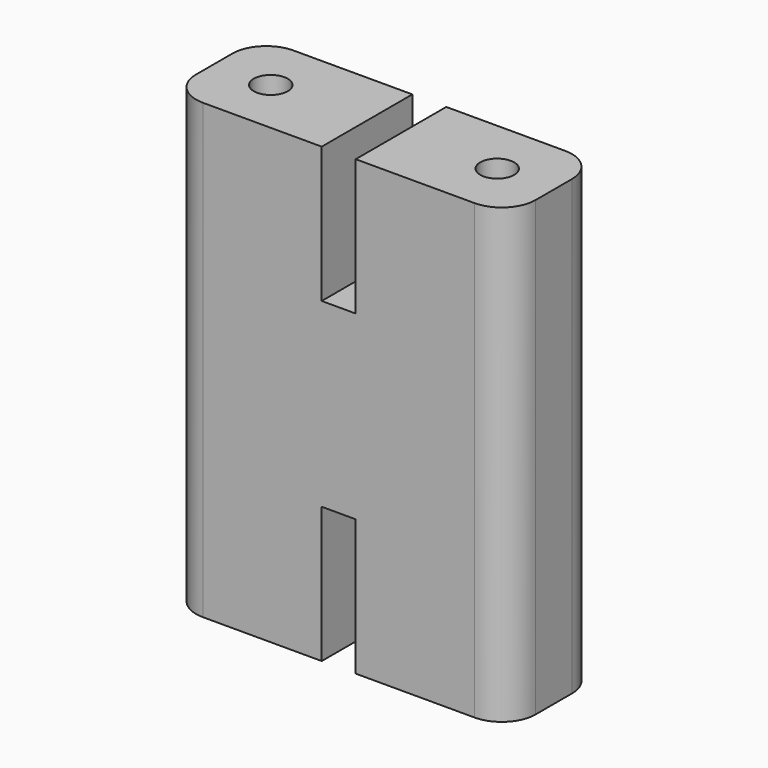
from build123d import *

# Parameters (mm, degrees)
F0_R     = 1.5
F1_DEPTH = 20
F2_W     = 3
F2_H     = 10
F3_DEPTH = 12


with BuildPart() as f1:
    # F0 (on Top) → F1 (new body)
    with BuildSketch(Plane.XY):
        with BuildLine():
            ThreePointArc((15, 2), (14.12132, 4.12132), (12, 5))
            Line((12, 5), (-12, 5))
            ThreePointArc((-12, 5), (-14.12132, 4.12132), (-15, 2))
            Line((-15, 2), (-15, -2))
            ThreePointArc((-15, -2), (-14.12132, -4.12132), (-12, -5))
            Line((-12, -5), (12, -5))
            ThreePointArc((12, -5), (14.12132, -4.12132), (15, -2))
            Line((15, -2), (15, 2))
        make_face()
        with Locations((-10, 0)):
            Circle(F0_R, mode=Mode.SUBTRACT)
        with Locations((10, 0)):
            Circle(F0_R, mode=Mode.SUBTRACT)
    extrude(amount=F1_DEPTH)

    # F2 (on face) → F3 (cut)
    with BuildSketch(Plane(origin=(0, 0, 0), x_dir=(1, 0, 0), z_dir=(0, 0, -1))):
        Rectangle(F2_W, F2_H)
    extrude(amount=-F3_DEPTH, mode=Mode.SUBTRACT)

    # F4: F1 across face


with BuildPart() as f1_1:
    add(f1.part)
    add(f1.part.mirror(Plane.XY.offset(20)))


solid = f1_1.part
